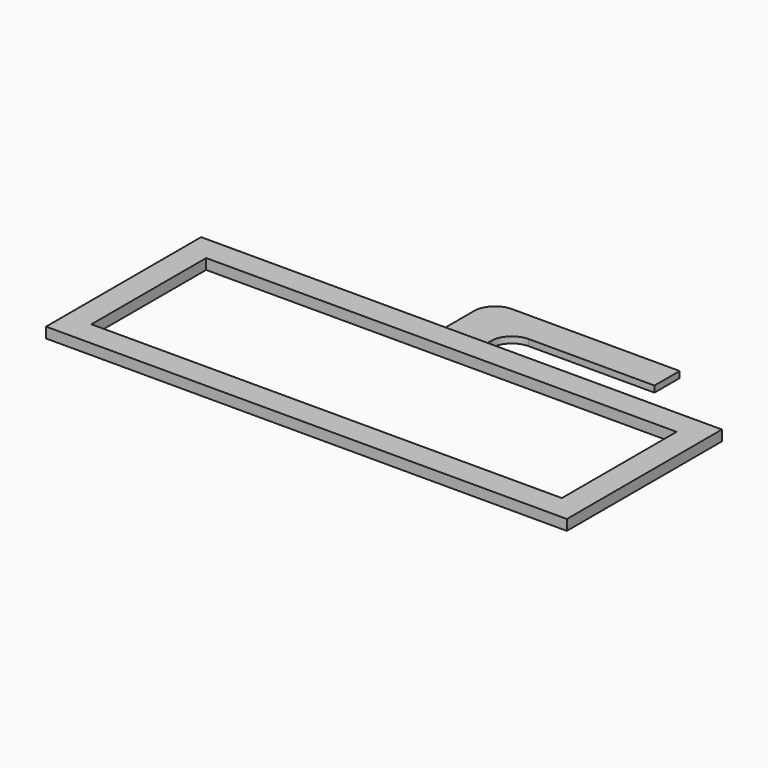
from build123d import *

# Parameters (mm, degrees)
F0_W     = 224.3
F0_H     = 68.4
F1_DEPTH = 5
F2_DEPTH = 3


with BuildPart() as f1:
    # F0 (on Top) → F1 (new body)
    with BuildSketch(Plane.XY):
        Polygon((124.15, -46.2), (124.15, 46.2), (10, 46.2), (-10, 46.2), (-124.15, 46.2), (-124.15, -46.2), align=None)
        Rectangle(F0_W, F0_H, mode=Mode.SUBTRACT)
    extrude(amount=F1_DEPTH)

    # F0 (on Top) → F2 (join)
    with BuildSketch(Plane.XY):
        with BuildLine():
            Line((-10, 46.2), (10, 46.2))
            Line((10, 46.2), (10, 51.2))
            ThreePointArc((10, 51.2), (12.928932, 58.271068), (20, 61.2))
            Line((20, 61.2), (80, 61.2))
            Line((80, 61.2), (80, 76.2))
            Line((80, 76.2), (10, 76.2))
            Line((10, 76.2), (0, 76.2))
            ThreePointArc((0, 76.2), (-7.071068, 73.271068), (-10, 66.2))
            Line((-10, 66.2), (-10, 46.2))
        make_face()
    extrude(amount=F2_DEPTH)


solid = f1.part
